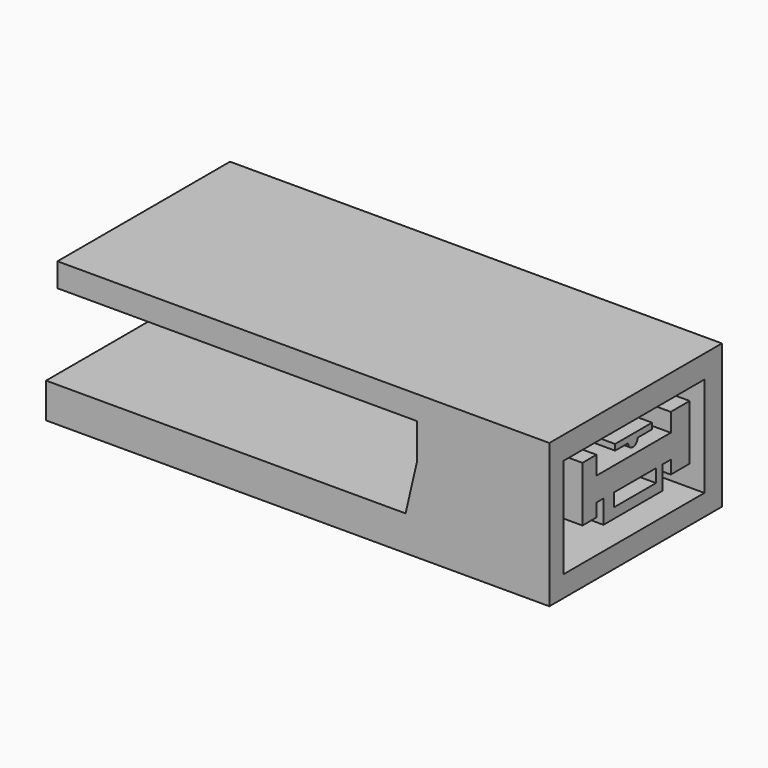
from build123d import *

# Parameters (mm, degrees)
F0_W      = 177.8
F0_H      = 50.8
F1_DEPTH  = 76.2
F3_DEPTH  = 76.2
F4_W      = 119.38
F4_H      = 12.7
F5_DEPTH  = 25.4
F6_W      = 119.38
F6_H      = 12.7
F7_DEPTH  = 25.4
F8_W      = 62.212805
F8_H      = 35.284875
F9_DEPTH  = 25.4
F10_W     = 12.07114
F10_H     = 8.202186
F10_W_2   = 14.85679
F11_DEPTH = 25.4
F13_DEPTH = 25.4


with BuildPart() as f1:
    # F0 (on Front) → F1 (new body)
    with BuildSketch(Plane.XZ):
        with Locations((-25.930598, 9.76942)):
            Rectangle(F0_W, F0_H)
    extrude(amount=F1_DEPTH)

    # F2 (on face) → F3 (cut)
    with BuildSketch(Plane.XZ.offset(76.2)):
        Polygon((-114.830598, 35.16942), (-114.830598, -3.249923), (12.169402, -3.249923), (16.191416, 14.069194), (-103.188584, 14.069194), (-103.188584, 26.769194), (-110.808584, 26.769194), (-110.808584, 35.16942), align=None)
    extrude(amount=-F3_DEPTH, mode=Mode.SUBTRACT)

    # F4 (on face) → F5 (cut)
    with BuildSketch(Plane.XZ.offset(76.2)):
        with Locations((-43.498584, 20.419194)):
            Rectangle(F4_W, F4_H)
    extrude(amount=-F5_DEPTH, mode=Mode.SUBTRACT)

    # F6 (on face) → F7 (cut)
    with BuildSketch(Plane(origin=(0, 0, 0), x_dir=(-1, 0, 0), z_dir=(0, 1, 0))):
        with Locations((43.498584, 20.419194)):
            Rectangle(F6_W, F6_H)
    extrude(amount=-F7_DEPTH, mode=Mode.SUBTRACT)

    # F8 (on face) → F9 (cut)
    with BuildSketch(Plane.YZ.offset(62.969402)):
        with Locations((-38.844313, 9.440251)):
            Rectangle(F8_W, F8_H)
    extrude(amount=-F9_DEPTH, mode=Mode.SUBTRACT)

    # F10 (on face) → F11 (cut)
    with BuildSketch(Plane.YZ.offset(37.569402)):
        with Locations((-63.915145, -4.101093)):
            Rectangle(F10_W, F10_H)
        with Locations((-15.166305, -4.101093)):
            Rectangle(F10_W_2, F10_H)
    extrude(amount=-F11_DEPTH, mode=Mode.SUBTRACT)

    # F12 (on face) → F13 (join)
    with BuildSketch(Plane.YZ.offset(37.569402)):
        Polygon((-55.403445, 23.058975), (-61.593771, 23.058975), (-61.593771, 3.559439), (-55.403445, 3.559439), (-55.403445, 8.202186), (-52.30828, 8.202186), (-52.30828, 16.55913), (-55.403445, 16.55913), align=None)
        Polygon((-26.308898, 16.55913), (-52.30828, 16.55913), (-52.30828, 8.202186), (-47.665533, 8.202186), (-29.094545, 8.202186), (-26.308898, 8.202186), align=None)
        Polygon((-47.665533, 8.202186), (-52.30828, 8.202186), (-52.30828, 0), (-26.308898, 0), (-26.308898, 8.202186), (-29.094545, 8.202186), (-29.094545, 3.559439), (-47.665533, 3.559439), align=None)
        with BuildLine():
            ThreePointArc((-41.38843, 20.979134), (-39.308589, 18.899294), (-37.228748, 20.979134))
            Line((-37.228748, 20.979134), (-41.38843, 20.979134))
        make_face()
        with BuildLine():
            Line((-41.38843, 20.979134), (-37.228748, 20.979134))
            ThreePointArc((-37.228748, 20.979134), (-37.837919, 22.449804), (-39.308589, 23.058975))
            ThreePointArc((-39.308589, 23.058975), (-40.779258, 22.449804), (-41.38843, 20.979134))
        make_face()
        with BuildLine():
            ThreePointArc((-41.38843, 20.979134), (-40.779258, 22.449804), (-39.308589, 23.058975))
            Line((-39.308589, 23.058975), (-47.165178, 23.058975))
            Line((-47.165178, 23.058975), (-47.165178, 20.979134))
            Line((-47.165178, 20.979134), (-41.38843, 20.979134))
        make_face()
        with BuildLine():
            ThreePointArc((-39.308589, 23.058975), (-37.837919, 22.449804), (-37.228748, 20.979134))
            Line((-37.228748, 20.979134), (-30.838896, 20.979134))
            Line((-30.838896, 20.979134), (-30.838896, 23.058975))
            Line((-30.838896, 23.058975), (-39.308589, 23.058975))
        make_face()
        Polygon((-22.5947, 16.55913), (-26.308898, 16.55913), (-26.308898, 8.202186), (-22.5947, 8.202186), (-22.5947, 3.559439), (-14.237756, 3.559439), (-14.237756, 23.058975), (-22.5947, 23.058975), align=None)
    extrude(amount=F13_DEPTH)


solid = f1.part
